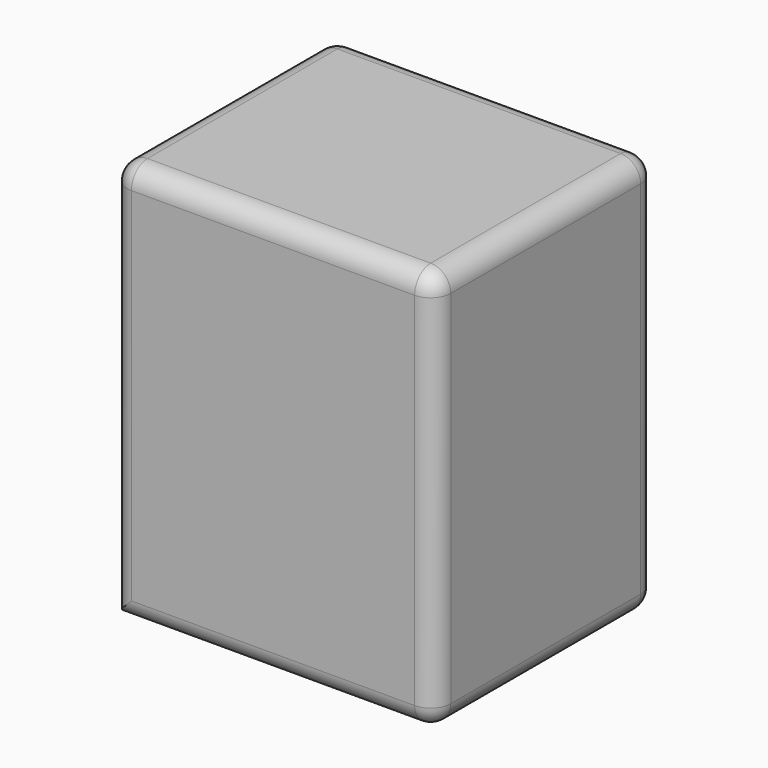
from build123d import *

# Parameters (mm, degrees)
F0_W     = 81.863822
F0_H     = 70.250543
F1_DEPTH = 101.6
F2_R     = 5.08


with BuildPart() as f1:
    # F0 (on Top) → F1 (new body)
    with BuildSketch(Plane.XY):
        with Locations((-10.375201, 7.390248)):
            Rectangle(F0_W, F0_H)
    extrude(amount=F1_DEPTH)

    # F2
    f2_edges = [f1.edges().sort_by_distance(p)[0] for p in [
        (-10.375201, -27.735023, 101.6),
        (30.55671, 7.390249, 101.6),
        (30.55671, -27.735023, 50.8),
        (-51.307112, -27.735023, 50.8),
        (-51.307112, 7.390249, 101.6),
        (-10.375201, 42.51552, 101.6),
        (30.55671, 42.51552, 50.8),
        (30.55671, 7.390249, 0),
        (-10.375201, -27.735023, 0),
        (-10.375201, 42.51552, 0),
        (-51.307112, 42.51552, 50.8),
    ]]
    fillet(f2_edges, radius=F2_R)


solid = f1.part
